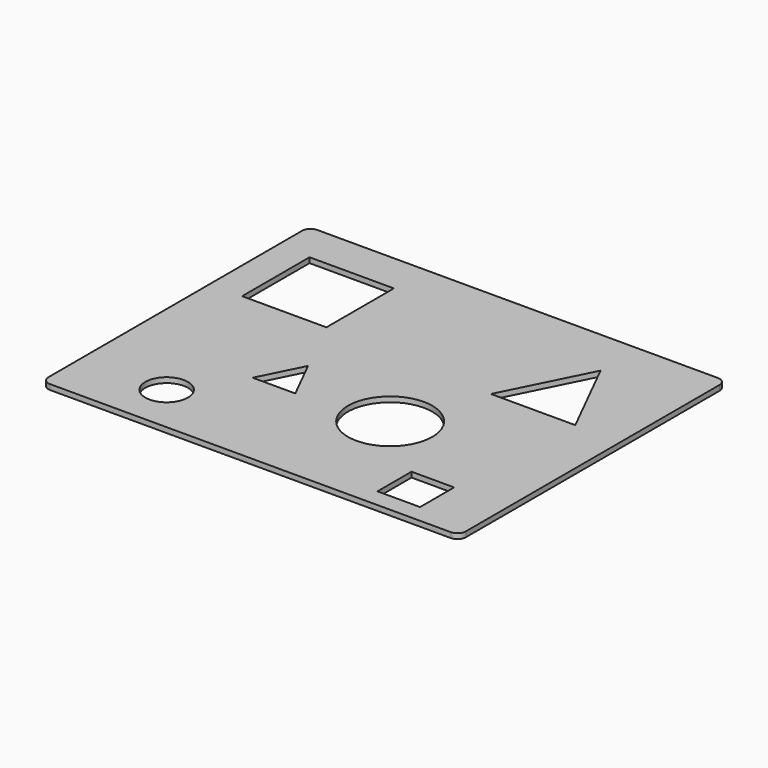
from build123d import *

# Parameters (mm, degrees)
F0_W      = 254
F0_H      = 203.2
F1_DEPTH  = 3.175
F2_W      = 51.308
F2_H      = 51.308
F3_DEPTH  = 3.175
F4_W      = 25.908
F4_H      = 25.908
F5_DEPTH  = 3.175
F6_R      = 12.954
F7_DEPTH  = 3.175
F9_DEPTH  = 3.176
F10_R     = 25.654
F11_DEPTH = 3.175
F13_DEPTH = 3.175
F14_R     = 5.08
F15_R     = 5.08
F16_R     = 5.08
F17_R     = 5.08


with BuildPart() as f1:
    # F0 (on Top) → F1 (new body)
    with BuildSketch(Plane.XY):
        with Locations((3.054343, 10.392927)):
            Rectangle(F0_W, F0_H)
    extrude(amount=F1_DEPTH)

    # F2 (on face) → F3 (cut, through all)
    with BuildSketch(Plane.XY.offset(3.175)):
        with Locations((-78.505307, 62.120071)):
            Rectangle(F2_W, F2_H)
    extrude(amount=-F3_DEPTH, mode=Mode.SUBTRACT)

    # F4 (on face) → F5 (cut, through all)
    with BuildSketch(Plane.XY.offset(3.175)):
        with Locations((84.492568, -67.214648)):
            Rectangle(F4_W, F4_H)
    extrude(amount=-F5_DEPTH, mode=Mode.SUBTRACT)

    # F6 (on face) → F7 (cut, through all)
    with BuildSketch(Plane.XY.offset(3.175)):
        with Locations((-71.979322, -61.128017)):
            Circle(F6_R)
    extrude(amount=-F7_DEPTH, mode=Mode.SUBTRACT)

    # F8 (on face) → F9 (cut, through all)
    with BuildSketch(Plane.XY.offset(3.175)):
        Polygon((76.70291, 83.061458), (51.04891, 31.753458), (102.35691, 31.753458), align=None)
    extrude(amount=-F9_DEPTH, mode=Mode.SUBTRACT)

    # F10 (on face) → F11 (cut, through all)
    with BuildSketch(Plane.XY.offset(3.175)):
        with Locations((31.222314, -20.150894)):
            Circle(F10_R)
    extrude(amount=-F11_DEPTH, mode=Mode.SUBTRACT)

    # F12 (on face) → F13 (cut, through all)
    with BuildSketch(Plane.XY.offset(3.175)):
        Polygon((-34.845916, 0), (-47.799916, -25.908), (-21.891916, -25.908), align=None)
    extrude(amount=-F13_DEPTH, mode=Mode.SUBTRACT)

    # F14
    f14_edges = [f1.edges().sort_by_distance(p)[0] for p in [
        (-123.945657, 111.992927, 1.5875),
    ]]
    fillet(f14_edges, radius=F14_R)

    # F15
    f15_edges = [f1.edges().sort_by_distance(p)[0] for p in [
        (130.054343, 111.992927, 1.5875),
    ]]
    fillet(f15_edges, radius=F15_R)

    # F16
    f16_edges = [f1.edges().sort_by_distance(p)[0] for p in [
        (130.054343, -91.207073, 1.5875),
    ]]
    fillet(f16_edges, radius=F16_R)

    # F17
    f17_edges = [f1.edges().sort_by_distance(p)[0] for p in [
        (-123.945657, -91.207073, 1.5875),
    ]]
    fillet(f17_edges, radius=F17_R)


solid = f1.part
